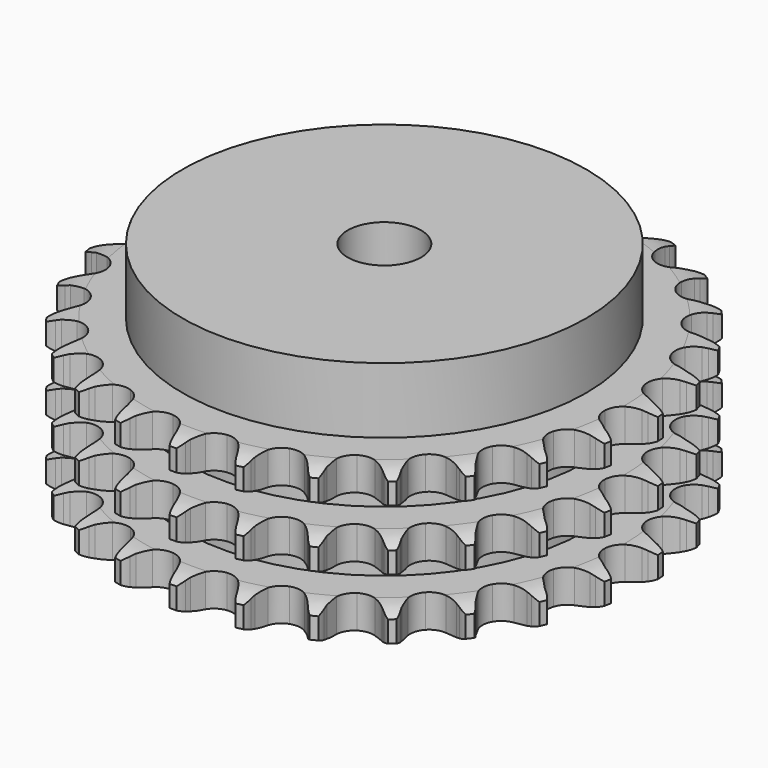
from build123d import *

# Parameters (mm, degrees)
PAD_DEPTH         = 42.1
SKETCH001_R       = 55
PAD001_DEPTH      = 60
SKETCH002_R       = 10
POCKET_DEPTH      = 0.001
POCKET_DEPTH_BACK = 60.001


with BuildPart() as part:
    # Sprocket → Pad (new body)
    with BuildSketch(Plane.XY):
        with BuildLine():
            ThreePointArc((-8.514292, 72.844425), (-7.272709, 71.413172), (-6.387729, 69.737814))
            Line((-6.387729, 69.737814), (-5.892963, 68.468562))
            ThreePointArc((-5.892963, 68.468562), (-5.105994, 66.802044), (-4.095745, 65.260615))
            ThreePointArc((-4.095745, 65.260615), (-2.286088, 63.764422), (0, 63.228459))
            ThreePointArc((0, 63.228459), (2.286088, 63.764422), (4.095745, 65.260615))
            ThreePointArc((4.095745, 65.260615), (5.105994, 66.802044), (5.892963, 68.468562))
            Line((5.892963, 68.468562), (6.387729, 69.737814))
            ThreePointArc((6.387729, 69.737814), (7.272709, 71.413172), (8.514292, 72.844425))
            ThreePointArc((8.514292, 72.844425), (9.392338, 71.165423), (9.8671, 69.331134))
            Line((9.8671, 69.331134), (10.05582, 67.981994))
            ThreePointArc((10.05582, 67.981994), (10.43725, 66.178909), (11.06479, 64.446051))
            ThreePointArc((11.06479, 64.446051), (12.480622, 62.572852), (14.581486, 61.524128))
            ThreePointArc((14.581486, 61.524128), (16.929554, 61.518436), (19.035477, 62.556963))
            Line((19.035477, 62.556963), (21.524055, 65.263972))
            ThreePointArc((21.524055, 65.263972), (21.896732, 65.834381), (22.298194, 66.38491))
            ThreePointArc((22.298194, 66.38491), (23.545683, 67.811018), (25.083869, 68.917364))
            ThreePointArc((25.083869, 68.917364), (25.551042, 67.081127), (25.58999, 65.186794))
            Line((25.58999, 65.186794), (25.46249, 63.830499))
            ThreePointArc((25.46249, 63.830499), (25.41782, 61.988052), (25.628819, 60.157183))
            ThreePointArc((25.628819, 60.157183), (26.574498, 58.007963), (28.376881, 56.503015))
            ThreePointArc((28.376881, 56.503015), (30.660343, 55.955975), (32.949002, 56.480849))
            Line((32.949002, 56.480849), (35.994779, 58.540985))
            ThreePointArc((35.994779, 58.540985), (36.488956, 59.010073), (37.006557, 59.453179))
            ThreePointArc((37.006557, 59.453179), (38.549303, 60.553155), (40.301168, 61.274949))
            ThreePointArc((40.301168, 61.274949), (40.332283, 59.380471), (39.933318, 57.528218))
            Line((39.933318, 57.528218), (39.496472, 56.237885))
            ThreePointArc((39.496472, 56.237885), (39.028108, 54.455404), (38.811192, 52.625226))
            ThreePointArc((38.811192, 52.625226), (39.235736, 50.31585), (40.64247, 48.43581))
            ThreePointArc((40.64247, 48.43581), (42.738225, 47.376913), (45.086238, 47.359837))
            Line((45.086238, 47.359837), (48.525015, 48.662038))
            ThreePointArc((48.525015, 48.662038), (49.11405, 49.004516), (49.719887, 49.316312))
            ThreePointArc((49.719887, 49.316312), (51.474721, 50.030856), (53.34582, 50.329186))
            ThreePointArc((53.34582, 50.329186), (52.9392, 48.478598), (52.12383, 46.76828))
            Line((52.12383, 46.76828), (51.401188, 45.613472))
            ThreePointArc((51.401188, 45.613472), (50.53438, 43.98705), (49.901243, 42.256229))
            ThreePointArc((49.901243, 42.256229), (49.781765, 39.911197), (50.717014, 37.757418))
            ThreePointArc((50.717014, 37.757418), (52.512079, 36.243749), (54.792862, 35.685645))
            Line((54.792862, 35.685645), (58.439255, 36.159708))
            ThreePointArc((58.439255, 36.159708), (59.091394, 36.357113), (59.752805, 36.520789))
            ThreePointArc((59.752805, 36.520789), (61.625122, 36.81138), (63.514586, 36.670163))
            ThreePointArc((63.514586, 36.670163), (62.692152, 34.963231), (61.504334, 33.487053))
            Line((61.504334, 33.487053), (60.534853, 32.530026))
            ThreePointArc((60.534853, 32.530026), (59.316331, 31.147344), (58.301106, 29.609188))
            ThreePointArc((58.301106, 29.609188), (57.644047, 27.35492), (58.05739, 25.043513))
            ThreePointArc((58.05739, 25.043513), (59.454993, 23.156675), (61.54559, 22.08763))
            Line((61.54559, 22.08763), (65.20302, 21.707999))
            ThreePointArc((65.20302, 21.707999), (65.883105, 21.749689), (66.564434, 21.756421))
            ThreePointArc((66.564434, 21.756421), (68.453298, 21.607393), (70.259264, 21.034243))
            ThreePointArc((70.259264, 21.034243), (69.065352, 19.562988), (67.569122, 18.400529))
            Line((67.569122, 18.400529), (66.405069, 17.692877))
            ThreePointArc((66.405069, 17.692877), (64.900524, 16.628476), (63.557941, 15.365908))
            ThreePointArc((63.557941, 15.365908), (62.398723, 13.323933), (62.267877, 10.979507))
            ThreePointArc((62.267877, 10.979507), (63.192673, 8.821219), (64.980378, 7.298865))
            Line((64.980378, 7.298865), (68.451673, 6.086005))
            ThreePointArc((68.451673, 6.086005), (69.123041, 5.969734), (69.787557, 5.819159))
            ThreePointArc((69.787557, 5.819159), (71.591138, 5.238547), (73.216246, 4.264361))
            ThreePointArc((73.216246, 4.264361), (71.715222, 3.108098), (69.991242, 2.322029))
            Line((69.991242, 2.322029), (68.69537, 1.9019))
            ThreePointArc((68.69537, 1.9019), (66.985912, 1.213162), (65.388351, 0.294249))
            ThreePointArc((65.388351, 0.294249), (63.789467, -1.425352), (63.121487, -3.676408))
            ThreePointArc((63.121487, -3.676408), (63.523619, -5.989791), (64.912058, -7.883383))
            Line((64.912058, -7.883383), (68.010079, -9.864086))
            ThreePointArc((68.010079, -9.864086), (68.636536, -10.132051), (69.248415, -10.431815))
            ThreePointArc((69.248415, -10.431815), (70.869481, -11.412712), (72.226122, -12.735414))
            ThreePointArc((72.226122, -12.735414), (70.498906, -13.514349), (68.640115, -13.881653))
            Line((68.640115, -13.881653), (67.282285, -13.991608))
            ThreePointArc((67.282285, -13.991608), (65.460073, -14.267553), (63.693658, -14.793274))
            ThreePointArc((63.693658, -14.793274), (61.741305, -16.097795), (60.572201, -18.134127))
            ThreePointArc((60.572201, -18.134127), (60.429991, -20.47789), (61.344312, -22.640636))
            Line((61.344312, -22.640636), (63.902044, -25.282402))
            ThreePointArc((63.902044, -25.282402), (64.449818, -25.687615), (64.976073, -26.120408))
            ThreePointArc((64.976073, -26.120408), (66.327233, -27.448708), (67.342269, -29.048619))
            ThreePointArc((67.342269, -29.048619), (65.481976, -29.408235), (63.588583, -29.336971))
            Line((63.588583, -29.336971), (62.241996, -29.130825))
            ThreePointArc((62.241996, -29.130825), (60.405264, -28.979101), (58.565223, -29.083288))
            ThreePointArc((58.565223, -29.083288), (56.364653, -29.902401), (54.757452, -31.61423))
            ThreePointArc((54.757452, -31.61423), (54.078566, -33.862021), (54.469478, -36.177327))
            Line((54.469478, -36.177327), (56.349033, -39.337737))
            ThreePointArc((56.349033, -39.337737), (56.788593, -39.858353), (57.200854, -40.400842))
            ThreePointArc((57.200854, -40.400842), (58.209266, -42.004937), (58.827977, -43.795806))
            ThreePointArc((58.827977, -43.795806), (56.934895, -43.716715), (55.108973, -43.210726))
            Line((55.108973, -43.210726), (53.846224, -42.699592))
            ThreePointArc((53.846224, -42.699592), (52.093991, -42.128378), (50.279522, -41.805414))
            ThreePointArc((50.279522, -41.805414), (47.949369, -42.094962), (45.990715, -43.390001))
            ThreePointArc((45.990715, -43.390001), (44.811752, -45.420642), (44.65818, -47.763688))
            Line((44.65818, -47.763688), (45.758231, -51.272364))
            ThreePointArc((45.758231, -51.272364), (46.06588, -51.880316), (46.341922, -52.503257))
            ThreePointArc((46.341922, -52.503257), (46.953223, -54.296669), (47.142253, -56.181949))
            ThreePointArc((47.142253, -56.181949), (45.318439, -55.668415), (43.658424, -54.754979))
            Line((43.658424, -54.754979), (42.547588, -53.966413))
            ThreePointArc((42.547588, -53.966413), (40.974318, -53.006504), (39.283239, -52.2738))
            ThreePointArc((39.283239, -52.2738), (36.949121, -52.018172), (34.744606, -52.826607))
            ThreePointArc((34.744606, -52.826607), (33.129124, -54.530623), (32.439349, -56.775097))
            Line((32.439349, -56.775097), (32.700591, -60.442885))
            ThreePointArc((32.700591, -60.442885), (32.859744, -61.105399), (32.984685, -61.775208))
            ThreePointArc((32.984685, -61.775208), (33.165919, -63.661254), (32.915078, -65.53931))
            ThreePointArc((32.915078, -65.53931), (31.258855, -64.619017), (29.854239, -63.347377))
            Line((29.854239, -63.347377), (28.955201, -62.323891))
            ThreePointArc((28.955201, -62.323891), (27.645709, -61.027035), (26.169186, -59.924091))
            ThreePointArc((26.169186, -59.924091), (23.956937, -59.137069), (21.625407, -59.415317))
            ThreePointArc((21.625407, -59.415317), (19.660497, -60.700845), (18.471703, -62.725746))
            Line((18.471703, -62.725746), (17.880054, -66.354915))
            ThreePointArc((17.880054, -66.354915), (17.882131, -67.036273), (17.849235, -67.716841))
            ThreePointArc((17.849235, -67.716841), (17.590632, -69.593844), (16.913443, -71.363428))
            ThreePointArc((16.913443, -71.363428), (15.514097, -70.085991), (14.440603, -68.524701))
            Line((14.440603, -68.524701), (13.801832, -67.321471))
            ThreePointArc((13.801832, -67.321471), (12.826713, -65.757582), (11.644346, -64.343859))
            ThreePointArc((11.644346, -64.343859), (9.673227, -63.067872), (7.340376, -62.800931))
            ThreePointArc((7.340376, -62.800931), (5.131968, -63.598669), (3.508244, -65.294833))
            Line((3.508244, -65.294833), (2.095598, -68.689733))
            ThreePointArc((2.095598, -68.689733), (1.940487, -69.353205), (1.751529, -70.007842))
            ThreePointArc((1.751529, -70.007842), (1.067029, -71.774611), (0, -73.340326))
            ThreePointArc((0, -73.340326), (-1.067029, -71.774611), (-1.751529, -70.007842))
            Line((-1.751529, -70.007842), (-2.095598, -68.689733))
            ThreePointArc((-2.095598, -68.689733), (-2.683775, -66.943122), (-3.508244, -65.294833))
            ThreePointArc((-3.508244, -65.294833), (-5.131968, -63.598669), (-7.340376, -62.800931))
            ThreePointArc((-7.340376, -62.800931), (-9.673227, -63.067872), (-11.644346, -64.343859))
            Line((-11.644346, -64.343859), (-13.801832, -67.321471))
            ThreePointArc((-13.801832, -67.321471), (-14.105769, -67.931288), (-14.440603, -68.524701))
            ThreePointArc((-14.440603, -68.524701), (-15.514097, -70.085991), (-16.913443, -71.363428))
            ThreePointArc((-16.913443, -71.363428), (-17.590632, -69.593844), (-17.849235, -67.716841))
            Line((-17.849235, -67.716841), (-17.880054, -66.354915))
            ThreePointArc((-17.880054, -66.354915), (-18.04958, -64.51974), (-18.471703, -62.725746))
            ThreePointArc((-18.471703, -62.725746), (-19.660497, -60.700845), (-21.625407, -59.415317))
            ThreePointArc((-21.625407, -59.415317), (-23.956937, -59.137069), (-26.169186, -59.924091))
            Line((-26.169186, -59.924091), (-28.955201, -62.323891))
            ThreePointArc((-28.955201, -62.323891), (-29.391579, -62.847177), (-29.854239, -63.347377))
            ThreePointArc((-29.854239, -63.347377), (-31.258855, -64.619017), (-32.915078, -65.53931))
            ThreePointArc((-32.915078, -65.53931), (-33.165919, -63.661254), (-32.984685, -61.775208))
            Line((-32.984685, -61.775208), (-32.700591, -60.442885))
            ThreePointArc((-32.700591, -60.442885), (-32.442327, -58.618083), (-32.439349, -56.775097))
            ThreePointArc((-32.439349, -56.775097), (-33.129124, -54.530623), (-34.744606, -52.826607))
            ThreePointArc((-34.744606, -52.826607), (-36.949121, -52.018172), (-39.283239, -52.2738))
            Line((-39.283239, -52.2738), (-42.547588, -53.966413))
            ThreePointArc((-42.547588, -53.966413), (-43.092882, -54.374958), (-43.658424, -54.754979))
            ThreePointArc((-43.658424, -54.754979), (-45.318439, -55.668415), (-47.142253, -56.181949))
            ThreePointArc((-47.142253, -56.181949), (-46.953223, -54.296669), (-46.341922, -52.503257))
            Line((-46.341922, -52.503257), (-45.758231, -51.272364))
            ThreePointArc((-45.758231, -51.272364), (-45.0861, -49.556309), (-44.65818, -47.763688))
            ThreePointArc((-44.65818, -47.763688), (-44.811752, -45.420642), (-45.990715, -43.390001))
            ThreePointArc((-45.990715, -43.390001), (-47.949369, -42.094962), (-50.279522, -41.805414))
            Line((-50.279522, -41.805414), (-53.846224, -42.699592))
            ThreePointArc((-53.846224, -42.699592), (-54.471036, -42.971372), (-55.108973, -43.210726))
            ThreePointArc((-55.108973, -43.210726), (-56.934895, -43.716715), (-58.827977, -43.795806))
            ThreePointArc((-58.827977, -43.795806), (-58.209266, -42.004937), (-57.200854, -40.400842))
            Line((-57.200854, -40.400842), (-56.349033, -39.337737))
            ThreePointArc((-56.349033, -39.337737), (-55.29927, -37.822942), (-54.469478, -36.177327))
            ThreePointArc((-54.469478, -36.177327), (-54.078566, -33.862021), (-54.757452, -31.61423))
            ThreePointArc((-54.757452, -31.61423), (-56.364653, -29.902401), (-58.565223, -29.083288))
            Line((-58.565223, -29.083288), (-62.241996, -29.130825))
            ThreePointArc((-62.241996, -29.130825), (-62.912642, -29.251188), (-63.588583, -29.336971))
            ThreePointArc((-63.588583, -29.336971), (-65.481976, -29.408235), (-67.342269, -29.048619))
            ThreePointArc((-67.342269, -29.048619), (-66.327233, -27.448708), (-64.976073, -26.120408))
            Line((-64.976073, -26.120408), (-63.902044, -25.282402))
            ThreePointArc((-63.902044, -25.282402), (-62.531242, -24.050531), (-61.344312, -22.640636))
            ThreePointArc((-61.344312, -22.640636), (-60.429991, -20.47789), (-60.572201, -18.134127))
            ThreePointArc((-60.572201, -18.134127), (-61.741305, -16.097795), (-63.693658, -14.793274))
            Line((-63.693658, -14.793274), (-67.282285, -13.991608))
            ThreePointArc((-67.282285, -13.991608), (-67.962612, -13.954064), (-68.640115, -13.881653))
            ThreePointArc((-68.640115, -13.881653), (-70.498906, -13.514349), (-72.226122, -12.735414))
            ThreePointArc((-72.226122, -12.735414), (-70.869481, -11.412712), (-69.248415, -10.431815))
            Line((-69.248415, -10.431815), (-68.010079, -9.864086))
            ThreePointArc((-68.010079, -9.864086), (-66.392138, -8.981549), (-64.912058, -7.883383))
            ThreePointArc((-64.912058, -7.883383), (-63.523619, -5.989791), (-63.121487, -3.676408))
            ThreePointArc((-63.121487, -3.676408), (-63.789467, -1.425352), (-65.388351, 0.294249))
            Line((-65.388351, 0.294249), (-68.69537, 1.9019))
            ThreePointArc((-68.69537, 1.9019), (-69.3487, 2.095326), (-69.991242, 2.322029))
            ThreePointArc((-69.991242, 2.322029), (-71.715222, 3.108098), (-73.216246, 4.264361))
            ThreePointArc((-73.216246, 4.264361), (-71.591138, 5.238547), (-69.787557, 5.819159))
            Line((-69.787557, 5.819159), (-68.451673, 6.086005))
            ThreePointArc((-68.451673, 6.086005), (-66.673817, 6.571631), (-64.980378, 7.298865))
            ThreePointArc((-64.980378, 7.298865), (-63.192673, 8.821219), (-62.267877, 10.979507))
            ThreePointArc((-62.267877, 10.979507), (-62.398723, 13.323933), (-63.557941, 15.365908))
            Line((-63.557941, 15.365908), (-66.405069, 17.692877))
            ThreePointArc((-66.405069, 17.692877), (-66.996181, 18.031757), (-67.569122, 18.400529))
            ThreePointArc((-67.569122, 18.400529), (-69.065352, 19.562988), (-70.259264, 21.034243))
            ThreePointArc((-70.259264, 21.034243), (-68.453298, 21.607393), (-66.564434, 21.756421))
            Line((-66.564434, 21.756421), (-65.20302, 21.707999))
            ThreePointArc((-65.20302, 21.707999), (-63.361093, 21.770532), (-61.54559, 22.08763))
            ThreePointArc((-61.54559, 22.08763), (-59.454993, 23.156675), (-58.05739, 25.043513))
            ThreePointArc((-58.05739, 25.043513), (-57.644047, 27.35492), (-58.301106, 29.609188))
            Line((-58.301106, 29.609188), (-60.534853, 32.530026))
            ThreePointArc((-60.534853, 32.530026), (-61.031881, 32.996092), (-61.504334, 33.487053))
            ThreePointArc((-61.504334, 33.487053), (-62.692152, 34.963231), (-63.514586, 36.670163))
            ThreePointArc((-63.514586, 36.670163), (-61.625122, 36.81138), (-59.752805, 36.520789))
            Line((-59.752805, 36.520789), (-58.439255, 36.159708))
            ThreePointArc((-58.439255, 36.159708), (-56.632557, 35.795778), (-54.792862, 35.685645))
            ThreePointArc((-54.792862, 35.685645), (-52.512079, 36.243749), (-50.717014, 37.757418))
            ThreePointArc((-50.717014, 37.757418), (-49.781765, 39.911197), (-49.901243, 42.256229))
            Line((-49.901243, 42.256229), (-51.401188, 45.613472))
            ThreePointArc((-51.401188, 45.613472), (-51.777336, 46.181598), (-52.12383, 46.76828))
            ThreePointArc((-52.12383, 46.76828), (-52.9392, 48.478598), (-53.34582, 50.329186))
            ThreePointArc((-53.34582, 50.329186), (-51.474721, 50.030856), (-49.719887, 49.316312))
            Line((-49.719887, 49.316312), (-48.525015, 48.662038))
            ThreePointArc((-48.525015, 48.662038), (-46.850944, 47.891265), (-45.086238, 47.359837))
            ThreePointArc((-45.086238, 47.359837), (-42.738225, 47.376913), (-40.64247, 48.43581))
            ThreePointArc((-40.64247, 48.43581), (-39.235736, 50.31585), (-38.811192, 52.625226))
            Line((-38.811192, 52.625226), (-39.496472, 56.237885))
            ThreePointArc((-39.496472, 56.237885), (-39.731462, 56.877443), (-39.933318, 57.528218))
            ThreePointArc((-39.933318, 57.528218), (-40.332283, 59.380471), (-40.301168, 61.274949))
            ThreePointArc((-40.301168, 61.274949), (-38.549303, 60.553155), (-37.006557, 59.453179))
            Line((-37.006557, 59.453179), (-35.994779, 58.540985))
            ThreePointArc((-35.994779, 58.540985), (-34.543585, 57.404921), (-32.949002, 56.480849))
            ThreePointArc((-32.949002, 56.480849), (-30.660343, 55.955975), (-28.376881, 56.503015))
            ThreePointArc((-28.376881, 56.503015), (-26.574498, 58.007963), (-25.628819, 60.157183))
            Line((-25.628819, 60.157183), (-25.46249, 63.830499))
            ThreePointArc((-25.46249, 63.830499), (-25.543654, 64.507009), (-25.58999, 65.186794))
            ThreePointArc((-25.58999, 65.186794), (-25.551042, 67.081127), (-25.083869, 68.917364))
            ThreePointArc((-25.083869, 68.917364), (-23.545683, 67.811018), (-22.298194, 66.38491))
            Line((-22.298194, 66.38491), (-21.524055, 65.263972))
            ThreePointArc((-21.524055, 65.263972), (-20.373973, 63.823863), (-19.035477, 62.556963))
            ThreePointArc((-19.035477, 62.556963), (-16.929554, 61.518436), (-14.581486, 61.524128))
            ThreePointArc((-14.581486, 61.524128), (-12.480622, 62.572852), (-11.06479, 64.446051))
            Line((-11.06479, 64.446051), (-10.05582, 67.981994))
            ThreePointArc((-10.05582, 67.981994), (-9.978782, 68.658987), (-9.8671, 69.331134))
            ThreePointArc((-9.8671, 69.331134), (-9.392338, 71.165423), (-8.514292, 72.844425))
        make_face()
    extrude(amount=PAD_DEPTH)

    # Sketch → Groove (revolve, cut)
    with BuildSketch(Plane.XZ):
        with BuildLine():
            ThreePointArc((65.025762, 0), (68.60347, 0.405129), (72, 1.6))
            Line((72, 1.6), (72, 7.4))
            ThreePointArc((72, 7.4), (68.60347, 8.594871), (65.025762, 9))
            Line((55, 9), (65.025762, 9))
            Line((55, 9), (55, 16.55))
            Line((55, 16.55), (65.025762, 16.55))
            ThreePointArc((65.025762, 16.55), (68.60347, 16.955129), (72, 18.15))
            Line((72, 23.95), (72, 18.15))
            ThreePointArc((72, 23.95), (68.60347, 25.144871), (65.025762, 25.55))
            Line((55, 25.55), (65.025762, 25.55))
            Line((55, 33.1), (55, 25.55))
            Line((65.025762, 33.1), (55, 33.1))
            ThreePointArc((65.025762, 33.1), (68.60347, 33.505129), (72, 34.7))
            Line((72, 34.7), (72, 40.5))
            ThreePointArc((72, 40.5), (68.60347, 41.694871), (65.025762, 42.1))
            Line((65.025762, 42.1), (82, 42.1))
            Line((82, 42.1), (82, 0))
            Line((65.025762, 0), (82, 0))
        make_face()
    revolve(axis=Axis((0, 0, 0), (0, 0, 1)), mode=Mode.SUBTRACT)

    # Sketch001 → Pad001 (join)
    with BuildSketch(Plane.XY):
        Circle(SKETCH001_R)
    extrude(amount=PAD001_DEPTH)

    # Sketch002 → Pocket (cut, two sides)
    with BuildSketch(Plane.XY) as pocket_sk:
        Circle(SKETCH002_R)
    extrude(amount=-POCKET_DEPTH, mode=Mode.SUBTRACT)
    extrude(pocket_sk.sketch, amount=POCKET_DEPTH_BACK, mode=Mode.SUBTRACT)


solid = part.part
